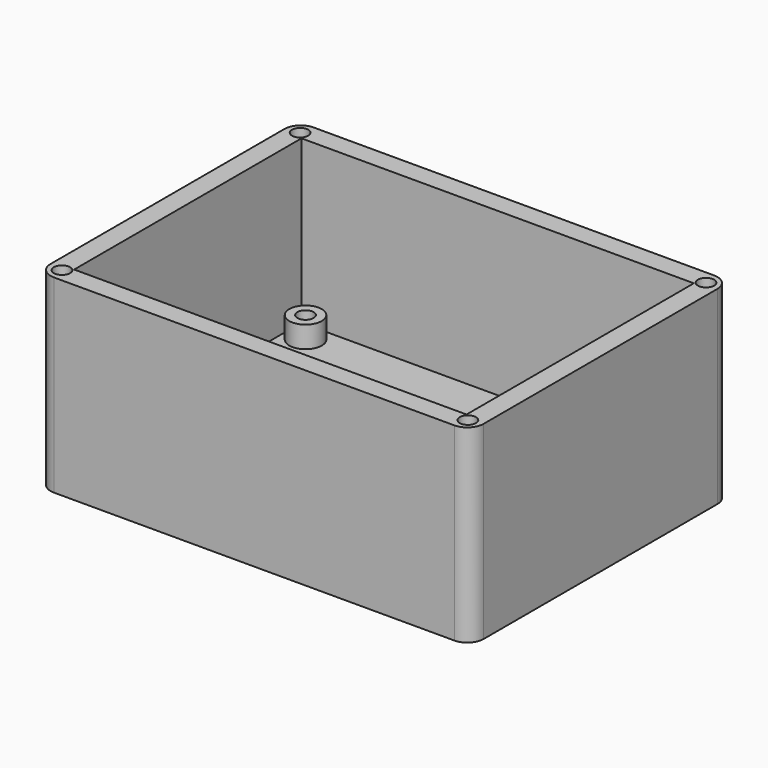
from build123d import *

# Parameters (mm, degrees)
SKETCH_W        = 80
SKETCH_H        = 60
PAD_DEPTH       = 35
SKETCH001_W     = 72.5
SKETCH001_H     = 52.5
SKETCH001_R     = 3
SKETCH001_R_2   = 1.5
POCKET_DEPTH    = 30
SKETCH002_R     = 1.5
POCKET001_DEPTH = 35.001
SKETCH003_W     = 72.5
SKETCH003_H     = 52.5
POCKET002_DEPTH = 26
FILLET_R        = 3


with BuildPart() as part:
    # Sketch → Pad (new body)
    with BuildSketch(Plane.XY):
        Rectangle(SKETCH_W, SKETCH_H)
    extrude(amount=PAD_DEPTH)

    # Sketch001 (on DatumPlane) → Pocket (cut)
    with BuildSketch(Plane.XY.offset(35)):
        Rectangle(SKETCH001_W, SKETCH001_H)
        with Locations((-32.5, 22.5)):
            Circle(SKETCH001_R, mode=Mode.SUBTRACT)
        with Locations((32.5, 22.5)):
            Circle(SKETCH001_R, mode=Mode.SUBTRACT)
        with Locations((32.5, -22.5)):
            Circle(SKETCH001_R, mode=Mode.SUBTRACT)
        with Locations((-32.5, -22.5)):
            Circle(SKETCH001_R, mode=Mode.SUBTRACT)
        with Locations((-32.5, 22.5)):
            Circle(SKETCH001_R_2)
        with Locations((32.5, 22.5)):
            Circle(SKETCH001_R_2)
        with Locations((32.5, -22.5)):
            Circle(SKETCH001_R_2)
        with Locations((-32.5, -22.5)):
            Circle(SKETCH001_R_2)
    extrude(amount=-POCKET_DEPTH, mode=Mode.SUBTRACT)

    # Sketch002 (on DatumPlane) → Pocket001 (cut, through all)
    with BuildSketch(Plane.XY.offset(35)):
        with Locations((37.5, -27.5)):
            Circle(SKETCH002_R)
        with Locations((37.5, 27.5)):
            Circle(SKETCH002_R)
        with Locations((-37.5, 27.5)):
            Circle(SKETCH002_R)
        with Locations((-37.5, -27.5)):
            Circle(SKETCH002_R)
    extrude(amount=-POCKET001_DEPTH, mode=Mode.SUBTRACT)

    # Sketch003 (on DatumPlane) → Pocket002 (cut)
    with BuildSketch(Plane.XY.offset(35)):
        Rectangle(SKETCH003_W, SKETCH003_H)
    extrude(amount=-POCKET002_DEPTH, mode=Mode.SUBTRACT)

    # Fillet
    fillet_edges = [part.edges().sort_by_distance(p)[0] for p in [
        (-40, -30, 17.5),
        (40, -30, 17.5),
        (40, 30, 17.5),
        (-40, 30, 17.5),
    ]]
    fillet(fillet_edges, radius=FILLET_R)


solid = part.part
